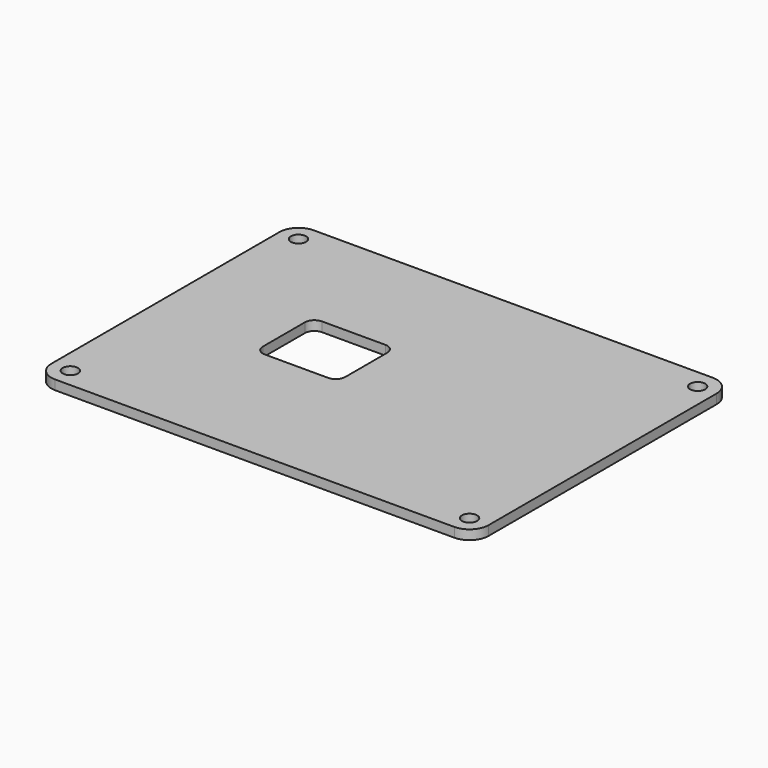
from build123d import *

# Parameters (mm, degrees)
F1_DEPTH = 3.175
F3_D     = 5.08
F5_DEPTH = 3.176


with BuildPart() as f1:
    # F0 (on Top) → F1 (new body)
    with BuildSketch(Plane.XY):
        with BuildLine():
            ThreePointArc((73.025, 47.625), (71.165128, 52.115128), (66.675, 53.975))
            Line((66.675, 53.975), (-66.675, 53.975))
            ThreePointArc((-66.675, 53.975), (-71.165128, 52.115128), (-73.025, 47.625))
            Line((-73.025, 47.625), (-73.025, -47.625))
            ThreePointArc((-73.025, -47.625), (-71.165128, -52.115128), (-66.675, -53.975))
            Line((-66.675, -53.975), (66.675, -53.975))
            ThreePointArc((66.675, -53.975), (71.165128, -52.115128), (73.025, -47.625))
            Line((73.025, -47.625), (73.025, 47.625))
        make_face()
    extrude(amount=F1_DEPTH)

    # F3 (through all)
    with Locations(Plane.XY.offset(3.175)):
        with Locations((-66.675, 47.625), (66.675, 47.625), (66.675, -47.625), (-66.675, -47.625)):
            Hole(F3_D / 2)

    # F4 (on face) → F5 (cut, through all)
    with BuildSketch(Plane.XY.offset(3.175)):
        with BuildLine():
            Line((-32.811304, -8.775606), (-11.638696, -8.775606))
            ThreePointArc((-11.638696, -8.775606), (-9.393632, -7.845671), (-8.463696, -5.600606))
            Line((-8.463696, -5.600606), (-8.463696, 11.950606))
            ThreePointArc((-8.463696, 11.950606), (-9.393632, 14.195671), (-11.638696, 15.125606))
            Line((-11.638696, 15.125606), (-32.811304, 15.125606))
            ThreePointArc((-32.811304, 15.125606), (-35.056368, 14.195671), (-35.986304, 11.950606))
            Line((-35.986304, 11.950606), (-35.986304, -5.600606))
            ThreePointArc((-35.986304, -5.600606), (-35.056368, -7.845671), (-32.811304, -8.775606))
        make_face()
    extrude(amount=-F5_DEPTH, mode=Mode.SUBTRACT)


solid = f1.part
